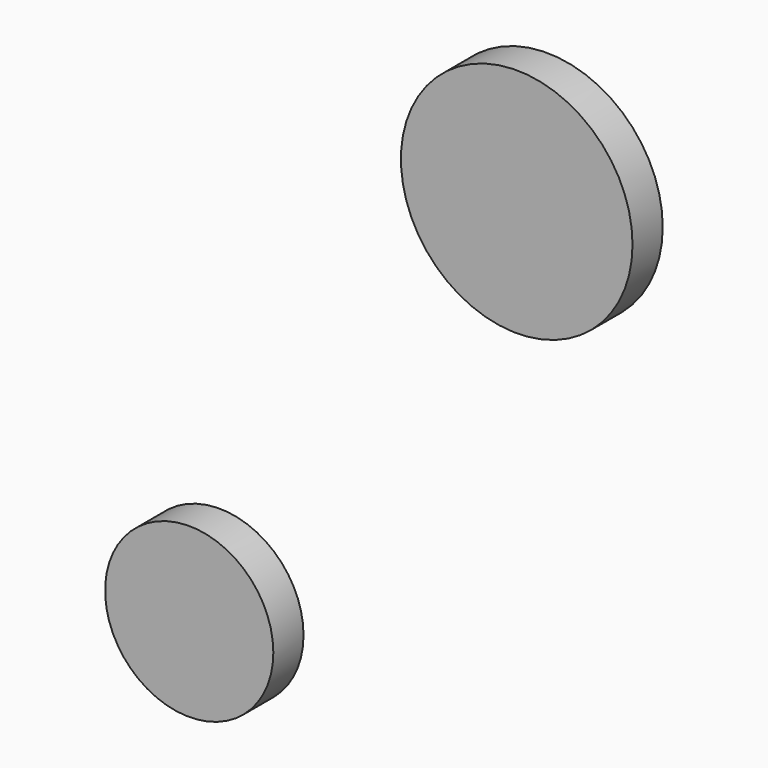
from build123d import *

# Parameters (mm, degrees)
F0_R     = 28.288874
F2_DEPTH = 12.7
F1_R     = 38.949406
F3_DEPTH = 12.7


with BuildPart() as f2:
    # F0 (on Front) → F2 (new body)
    with BuildSketch(Plane.XZ):
        Circle(F0_R)
    extrude(amount=F2_DEPTH)


with BuildPart() as f3:
    # F1 (on Front) → F3 (new body)
    with BuildSketch(Plane.XZ):
        with Locations((99.998005, 151.651368)):
            Circle(F1_R)
    extrude(amount=-F3_DEPTH)


solid = Compound([f2.part, f3.part])
